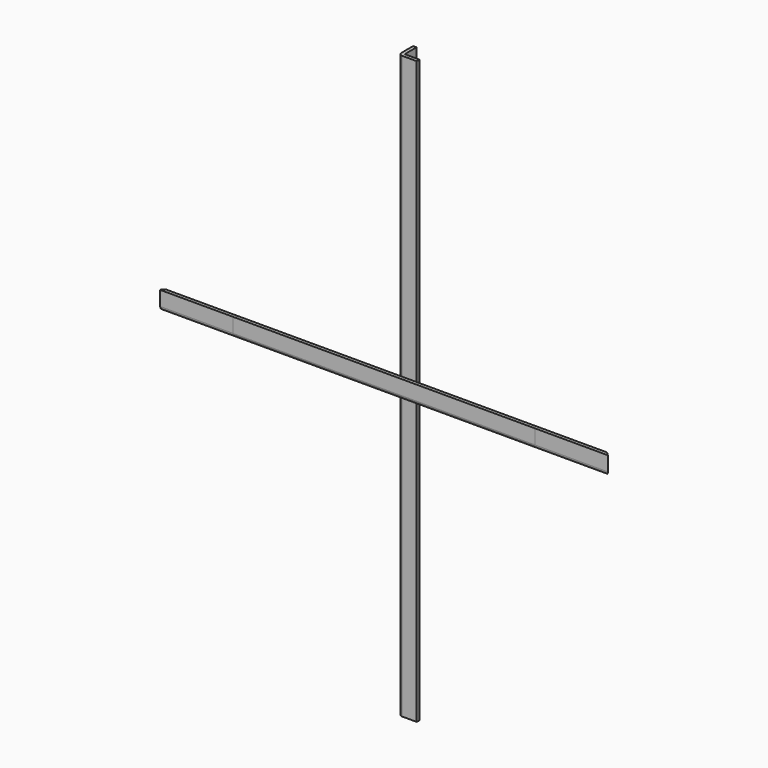
from build123d import *

# Parameters (mm, degrees)
F1_DEPTH  = 312.7375
F2_R      = 5.08
F4_DEPTH  = 152.4
F7_DEPTH  = 152.4
F8_ANGLE  = 90
F11_DEPTH = 211.1375
F12_R     = 5.08
F13_DEPTH = 152.4
F16_DEPTH = 152.4
F17_ANGLE = 90
F20_DEPTH = 406.4
F21_R     = 5.08


with BuildPart() as f1:
    # F0 (on Right) → F1 (new body, symmetric)
    with BuildSketch(Plane.YZ):
        Polygon((-25.4, 0), (0, 0), (0, 4.7625), (-20.6375, 4.7625), (-20.6375, 25.4), (-25.4, 25.4), align=None)
    extrude(amount=F1_DEPTH, both=True)

    # F2
    f2_edges = [f1.edges().sort_by_distance(p)[0] for p in [
        (0, -25.4, 0),
    ]]
    fillet(f2_edges, radius=F2_R)


with BuildPart() as f4:
    # F3 (on Top) → F4 (new body)
    with BuildSketch(Plane.XY):
        Polygon((-152.4, -152.4), (0, 0), (-152.4, 0), align=None)
    extrude(amount=F4_DEPTH)


with BuildPart() as f4_1:
    # F5: moved
    add(f4.part.moved(Location((-287.9725, 0, 0))))


with BuildPart() as f1_1:
    add(f1.part)

    # F6: cut F4
    add(f4_1.part, mode=Mode.SUBTRACT)


with BuildPart() as f7:
    # F3 (on Top) → F7 (new body)
    with BuildSketch(Plane.XY):
        Polygon((-152.4, -152.4), (0, 0), (-152.4, 0), align=None)
    extrude(amount=F7_DEPTH)


with BuildPart() as f7_1:
    # F8: moved
    add(f7.part.rotate(Axis((-152.4, 0, 76.2), (0, 0, -1)), F8_ANGLE))


with BuildPart() as f7_2:
    # F9: moved
    add(f7_1.part.moved(Location((592.074, 0, 0))))


with BuildPart() as f1_2:
    add(f1_1.part)

    # F10: cut F7
    add(f7_2.part, mode=Mode.SUBTRACT)


with BuildPart() as f11:
    # F0 (on Right) → F11 (new body, symmetric)
    with BuildSketch(Plane.YZ):
        Polygon((-25.4, 0), (0, 0), (0, 4.7625), (-20.6375, 4.7625), (-20.6375, 25.4), (-25.4, 25.4), align=None)
    extrude(amount=F11_DEPTH, both=True)

    # F12
    f12_edges = [f11.edges().sort_by_distance(p)[0] for p in [
        (0, -25.4, 0),
    ]]
    fillet(f12_edges, radius=F12_R)


with BuildPart() as f13:
    # F3 (on Top) → F13 (new body)
    with BuildSketch(Plane.XY):
        Polygon((-152.4, -152.4), (0, 0), (-152.4, 0), align=None)
    extrude(amount=F13_DEPTH)


with BuildPart() as f13_1:
    # F14: moved
    add(f13.part.moved(Location((-185.42, 0, 0))))


with BuildPart() as f11_1:
    add(f11.part)

    # F15: cut F13
    add(f13_1.part, mode=Mode.SUBTRACT)


with BuildPart() as f16:
    # F3 (on Top) → F16 (new body)
    with BuildSketch(Plane.XY):
        Polygon((-152.4, -152.4), (0, 0), (-152.4, 0), align=None)
    extrude(amount=F16_DEPTH)


with BuildPart() as f16_1:
    # F17: moved
    add(f16.part.rotate(Axis((-152.4, 0, 76.2), (0, 0, -1)), F17_ANGLE))


with BuildPart() as f16_2:
    # F18: moved
    add(f16_1.part.moved(Location((490.982, 0, 0))))


with BuildPart() as f11_2:
    add(f11_1.part)

    # F19: cut F16
    add(f16_2.part, mode=Mode.SUBTRACT)


with BuildPart() as f20:
    # F3 (on Top) → F20 (new body, symmetric)
    with BuildSketch(Plane.XY):
        Polygon((0, 25.4), (0, 0), (25.4, 0), (25.4, 4.7625), (4.7625, 4.7625), (4.7625, 25.4), align=None)
    extrude(amount=F20_DEPTH, both=True)

    # F21
    f21_edges = [f20.edges().sort_by_distance(p)[0] for p in [
        (0, 0, 0),
    ]]
    fillet(f21_edges, radius=F21_R)


solid = Compound([f1_2.part, f11_2.part, f20.part])
